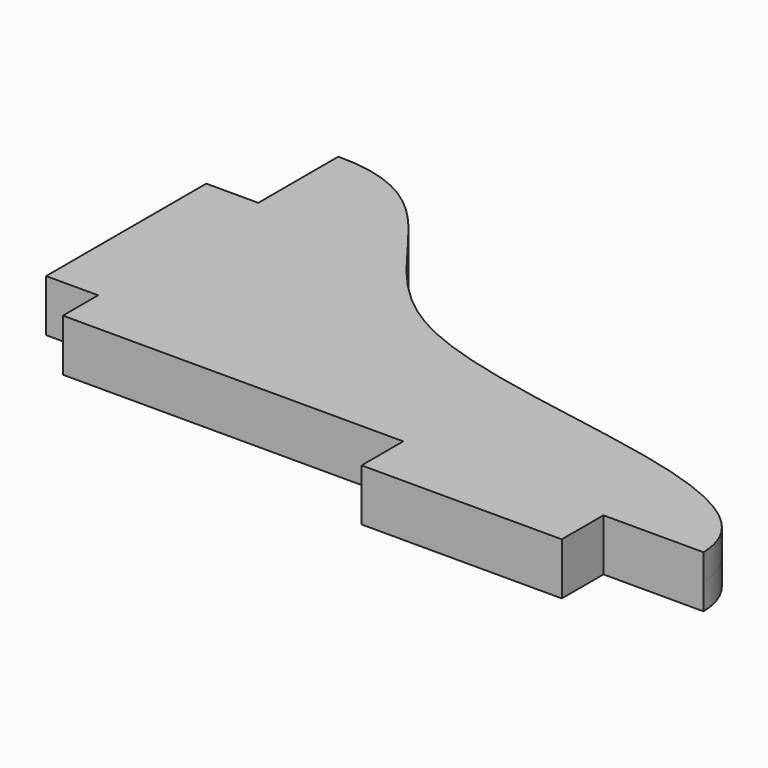
from build123d import *

# Parameters (mm, degrees)
F2_DEPTH      = 1.3
F2_DEPTH_BACK = 1.3


with BuildPart() as f2:
    # F1 (on Top) → F2 (new body, two sides)
    with BuildSketch(Plane.XY) as f2_sk:
        with BuildLine():
            Line((0, 17.2), (0, 12.2))
            Line((0, 12.2), (-2.6, 12.2))
            Line((-2.6, 12.2), (-2.6, 2.2))
            Line((-2.6, 2.2), (0, 2.2))
            Line((0, 2.2), (0, 0))
            Line((0, 0), (17, 0))
            Line((17, 0), (17, -2.6))
            Line((17, -2.6), (27, -2.6))
            Line((27, -2.6), (27, 0))
            Line((27, 0), (32, 0))
            add(Edge.make_bspline(
                [(0, 17.2), (6.2655004368, 17.2518818651), (6.5427098167, 3.6754039317), (31.8172106427, 6.1668737294), (32, 0)],
                knots=[0, 0, 0, 0, 0.4480896782, 1, 1, 1, 1], degree=3))
        make_face()
    extrude(amount=F2_DEPTH)
    extrude(f2_sk.sketch, amount=-F2_DEPTH_BACK)


solid = f2.part
